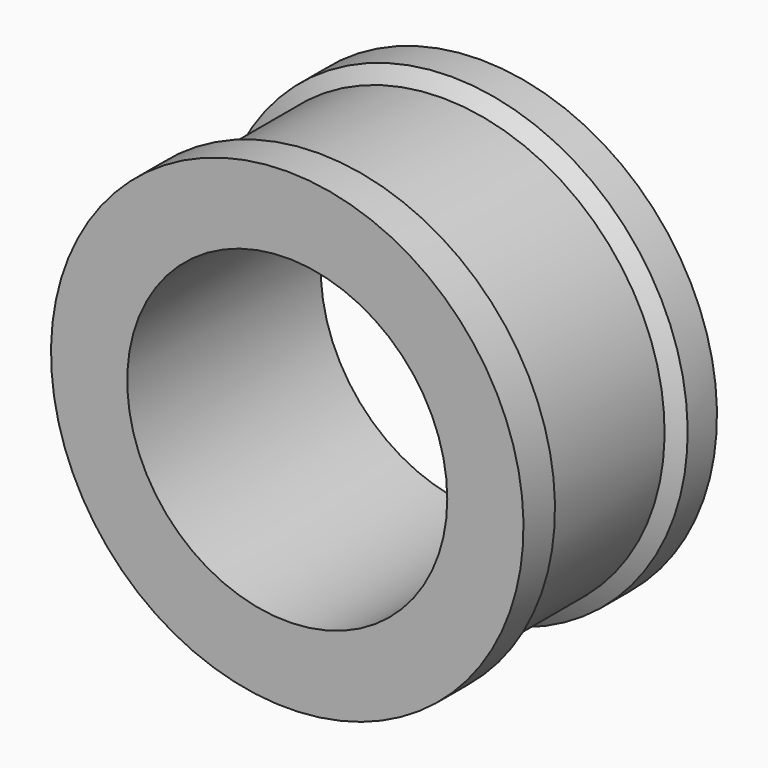
from build123d import *

# Parameters (mm, degrees)
F2_R     = 90.325808
F3_DEPTH = 136.526


with BuildPart() as f1:
    # F0 (on Right) → F1 (revolve)
    with BuildSketch(Plane.YZ):
        Polygon((0, 133.35), (0, 0), (136.525, 0), (136.525, 133.35), (115.827724, 133.35), (109.650344, 125.272825), (27.413897, 125.272825), (22.225, 133.35), align=None)
    revolve(axis=Axis((0, 68.2625, 0), (0, -1, 0)))

    # F2 (on face) → F3 (cut, through all)
    with BuildSketch(Plane.XZ):
        Circle(F2_R)
    extrude(amount=-F3_DEPTH, mode=Mode.SUBTRACT)


solid = f1.part
